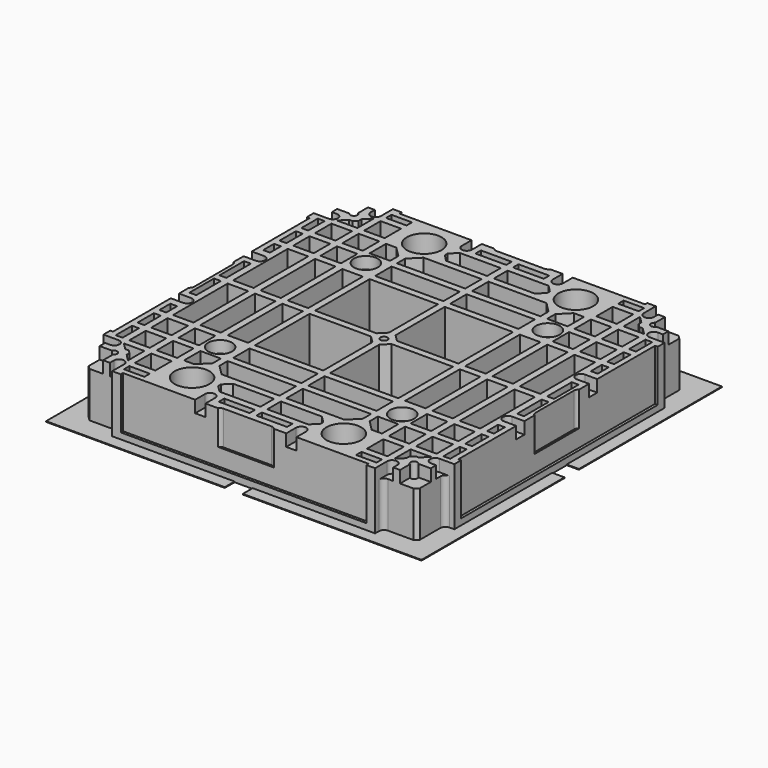
from build123d import *

# Parameters (mm, degrees)
SKETCH_W                 = 120
SKETCH_H                 = 120
PAD001_DEPTH             = 2
SKETCH002_R              = 2.55
PAD002_DEPTH             = 8
SKETCH003_R              = 5.1
PAD003_DEPTH             = 12
SKETCH006_W              = 120
SKETCH006_H              = 120
PAD004_DEPTH             = 2
SKETCH005_R              = 2.55
PAD005_DEPTH             = 20
SKETCH007_W              = 120
SKETCH007_H              = 120
PAD006_DEPTH             = 2
SKETCH008_R              = 1.025
PAD007_DEPTH             = 20
PAD008_DEPTH             = 6
CHAMFER_SIZE             = 0.4
SKETCH010_W              = 120
SKETCH010_H              = 120
PAD009_DEPTH             = 2
PAD010_DEPTH             = 3.5
POLARPATTERN_COUNT       = 4
SKETCH013_W              = 120
SKETCH013_H              = 120
PAD011_DEPTH             = 2
PAD012_DEPTH             = 10
POLARPATTERN001_COUNT    = 4
SKETCH017_W              = 120
SKETCH017_H              = 120
PAD013_DEPTH             = 2
PAD014_DEPTH             = 3.5
POLARPATTERN003_COUNT    = 4
PAD_DEPTH                = 17
SKETCH014_W              = 6
SKETCH014_H              = 20
SKETCH014_H_2            = 6
SKETCH014_W_2            = 20
SKETCH014_W_3            = 2
SKETCH014_H_3            = 4
SKETCH014_H_4            = 9
SKETCH014_W_4            = 9
SKETCH014_H_5            = 2
POCKET_DEPTH             = 309.744437
SKETCH014_MIRRORED_2_W   = 6
SKETCH014_MIRRORED_2_H   = 20
SKETCH014_MIRRORED_2_H_2 = 6
SKETCH014_MIRRORED_2_W_2 = 20
SKETCH014_MIRRORED_2_W_3 = 2
SKETCH014_MIRRORED_2_H_3 = 4
SKETCH014_MIRRORED_2_H_4 = 9
SKETCH014_MIRRORED_2_W_4 = 9
SKETCH014_MIRRORED_2_H_5 = 2
POCKET_MIRRORED_2_DEPTH  = 309.744437
SKETCH015_W              = 72
SKETCH015_H              = 15
POCKET001_DEPTH          = 0.8
POLARPATTERN002_COUNT    = 4
PAD015_DEPTH             = 0.2
POLARPATTERN004_COUNT    = 4
SKETCH019_R              = 3.5
POCKET002_DEPTH          = 3.5


with BuildPart() as tooling_hole:
    # Sketch → Pad001 (new body)
    with BuildSketch(Plane.XY):
        Rectangle(SKETCH_W, SKETCH_H)
    extrude(amount=-PAD001_DEPTH)

    # Sketch002 (on Face5 of Pad001) → Pad002 (join)
    with BuildSketch(Plane.XY):
        with Locations((-22.225, 42.5)):
            Circle(SKETCH002_R)
        with Locations((22.225, 42.5)):
            Circle(SKETCH002_R)
        with Locations((-22.225, -42.5)):
            Circle(SKETCH002_R)
        with Locations((22.225, -42.5)):
            Circle(SKETCH002_R)
    extrude(amount=PAD002_DEPTH)

    # Sketch003 (on Face13 of Pad002) → Pad003 (join)
    with BuildSketch(Plane.XY.offset(8)):
        with Locations((-22.225, 42.5)):
            Circle(SKETCH003_R)
        with Locations((22.225, 42.5)):
            Circle(SKETCH003_R)
        with Locations((-22.225, -42.5)):
            Circle(SKETCH003_R)
        with Locations((22.225, -42.5)):
            Circle(SKETCH003_R)
    extrude(amount=PAD003_DEPTH)


with BuildPart() as pcb_mounting_tube:
    # Sketch006 → Pad004 (new body)
    with BuildSketch(Plane.XY):
        Rectangle(SKETCH006_W, SKETCH006_H)
    extrude(amount=-PAD004_DEPTH)

    # Sketch005 (on Face5 of Pad004) → Pad005 (join)
    with BuildSketch(Plane.XY):
        with Locations((-26.67, 26.67)):
            Circle(SKETCH005_R)
        with Locations((26.67, 26.67)):
            Circle(SKETCH005_R)
        with Locations((-26.67, -26.67)):
            Circle(SKETCH005_R)
        with Locations((26.67, -26.67)):
            Circle(SKETCH005_R)
    extrude(amount=PAD005_DEPTH)


with BuildPart() as canvas_mounting_hole:
    # Sketch007 → Pad006 (new body)
    with BuildSketch(Plane.XY):
        Rectangle(SKETCH007_W, SKETCH007_H)
    extrude(amount=-PAD006_DEPTH)

    # Sketch008 (on Face5 of Pad006) → Pad007 (join)
    with BuildSketch(Plane.XY):
        with Locations((-44, 44)):
            Circle(SKETCH008_R)
        with Locations((44, 44)):
            Circle(SKETCH008_R)
        with Locations((-44, -44)):
            Circle(SKETCH008_R)
        with Locations((44, -44)):
            Circle(SKETCH008_R)
        Circle(SKETCH008_R)
    extrude(amount=PAD007_DEPTH)

    # Sketch009 (on Face4 of Pad007) → Pad008 (join)
    with BuildSketch(Plane.XY):
        Polygon((-42, 42.845299), (-42, 45.154701), (-44, 46.309401), (-46, 45.154701), (-46, 42.845299), (-44, 41.690599), align=None)
        Polygon((42, 45.154701), (42, 42.845299), (44, 41.690599), (46, 42.845299), (46, 45.154701), (44, 46.309401), align=None)
        Polygon((-42, -45.154701), (-42, -42.845299), (-44, -41.690599), (-46, -42.845299), (-46, -45.154701), (-44, -46.309401), align=None)
        Polygon((46, -45.154701), (46, -42.845299), (44, -41.690599), (42, -42.845299), (42, -45.154701), (44, -46.309401), align=None)
        Polygon((2, -1.154701), (2, 1.154701), (0, 2.309401), (-2, 1.154701), (-2, -1.154701), (0, -2.309401), align=None)
    extrude(amount=PAD008_DEPTH)

    # Chamfer
    chamfer_edges = [canvas_mounting_hole.edges().sort_by_distance(p)[0] for p in [
        (0, -60, 0),
        (-60, 0, 0),
        (60, 0, 0),
        (0, 60, 0),
        (2, 0, 0),
        (1, 1.732051, 0),
        (-1, 1.732051, 0),
        (-2, 0, 0),
        (-1, -1.732051, 0),
        (1, -1.732051, 0),
        (-42, -44, 0),
        (-43, -42.267949, 0),
        (-45, -42.267949, 0),
        (-46, -44, 0),
        (-45, -45.732051, 0),
        (-43, -45.732051, 0),
        (-42, 44, 0),
        (-43, 45.732051, 0),
        (-45, 45.732051, 0),
        (-46, 44, 0),
        (-45, 42.267949, 0),
        (-43, 42.267949, 0),
        (46, -44, 0),
        (45, -42.267949, 0),
        (43, -42.267949, 0),
        (42, -44, 0),
        (43, -45.732051, 0),
        (45, -45.732051, 0),
        (42, 44, 0),
        (43, 42.267949, 0),
        (45, 42.267949, 0),
        (46, 44, 0),
        (45, 45.732051, 0),
        (43, 45.732051, 0),
    ]]
    chamfer(chamfer_edges, length=CHAMFER_SIZE)


with BuildPart() as canvas_rib:
    # Sketch010 → Pad009 (new body)
    with BuildSketch(Plane.XY.offset(17)):
        Rectangle(SKETCH010_W, SKETCH010_H)
    extrude(amount=PAD009_DEPTH)

    # Sketch011 (on Face5 of Pad009) → Pad010 (join)
    with BuildSketch(Plane(origin=(0, 0, 17), x_dir=(1, 0, 0), z_dir=(0, 0, -1))):
        with BuildLine():
            ThreePointArc((-41.505, 47), (-40.005, 45.5), (-38.505, 47))
            Line((-38.505, 47), (-38.505, 57))
            ThreePointArc((-38.505, 57), (-40.005, 58.5), (-41.505, 57))
            Line((-41.505, 47), (-41.505, 57))
        make_face()
        with BuildLine():
            ThreePointArc((-14.835, 47), (-13.335, 45.5), (-11.835, 47))
            Line((-11.835, 47), (-11.835, 57))
            ThreePointArc((-11.835, 57), (-13.335, 58.5), (-14.835, 57))
            Line((-14.835, 47), (-14.835, 57))
        make_face()
        with BuildLine():
            ThreePointArc((11.835, 47), (13.335, 45.5), (14.835, 47))
            Line((14.835, 47), (14.835, 57))
            ThreePointArc((14.835, 57), (13.335, 58.5), (11.835, 57))
            Line((11.835, 47), (11.835, 57))
        make_face()
        with BuildLine():
            ThreePointArc((38.505, 47), (40.005, 45.5), (41.505, 47))
            Line((41.505, 47), (41.505, 57))
            ThreePointArc((41.505, 57), (40.005, 58.5), (38.505, 57))
            Line((38.505, 47), (38.505, 57))
        make_face()
    pad010 = extrude(amount=PAD010_DEPTH)

    # PolarPattern: Pad010 ×4 about axis
    polarpattern_axis = Axis((0, 0, 0), (0, 0, 1))
    for i in range(1, POLARPATTERN_COUNT):
        add(pad010.rotate(polarpattern_axis, i * 360 / POLARPATTERN_COUNT))


with BuildPart() as canvas_usb:
    # Sketch013 → Pad011 (new body)
    with BuildSketch(Plane.XY.offset(17)):
        Rectangle(SKETCH013_W, SKETCH013_H)
    extrude(amount=PAD011_DEPTH)

    # Sketch012 (on Face5 of Pad011) → Pad012 (join)
    with BuildSketch(Plane(origin=(0, 0, 17), x_dir=(1, 0, 0), z_dir=(0, 0, -1))):
        with BuildLine():
            ThreePointArc((-8.5, 51.5), (-8.06066, 50.43934), (-7, 50))
            Line((-7, 50), (7, 50))
            ThreePointArc((7, 50), (8.06066, 50.43934), (8.5, 51.5))
            Line((8.5, 67.989103), (8.5, 51.5))
            Line((-8.5, 67.989103), (8.5, 67.989103))
            Line((-8.5, 51.5), (-8.5, 67.989103))
        make_face()
    pad012 = extrude(amount=PAD012_DEPTH)

    # PolarPattern001: Pad012 ×4 about axis
    polarpattern001_axis = Axis((0, 0, 0), (0, 0, 1))
    for i in range(1, POLARPATTERN001_COUNT):
        add(pad012.rotate(polarpattern001_axis, i * 360 / POLARPATTERN001_COUNT))


with BuildPart() as canvas_corner:
    # Sketch017 → Pad013 (new body)
    with BuildSketch(Plane.XY.offset(17)):
        Rectangle(SKETCH017_W, SKETCH017_H)
    extrude(amount=PAD013_DEPTH)

    # Sketch016 (on Face5 of Pad013) → Pad014 (join)
    with BuildSketch(Plane(origin=(0, 0, 17), x_dir=(1, 0, 0), z_dir=(0, 0, -1))):
        with BuildLine():
            Line((-60, 60), (-43.5, 60))
            Line((-43.5, 60), (-43.5, 45))
            ThreePointArc((-45, 43.5), (-43.93934, 43.93934), (-43.5, 45))
            Line((-45, 43.5), (-60, 43.5))
            Line((-60, 43.5), (-60, 60))
        make_face()
    pad014 = extrude(amount=PAD014_DEPTH)

    # PolarPattern003: Pad014 ×4 about axis
    polarpattern003_axis = Axis((0, 0, 0), (0, 0, 1))
    for i in range(1, POLARPATTERN003_COUNT):
        add(pad014.rotate(polarpattern003_axis, i * 360 / POLARPATTERN003_COUNT))


with BuildPart() as base:
    # Sketch001 → Pad (new body)
    with BuildSketch(Plane.XY):
        with BuildLine():
            Line((-38.505, 51.4), (38.505, 51.4))
            Line((38.505, 51.4), (38.505, 50))
            ThreePointArc((38.505, 50), (38.94434, 48.93934), (40.005, 48.5))
            Line((40.005, 48.5), (47.5, 48.5))
            Line((47.5, 48.5), (48.5, 47.5))
            Line((48.5, 47.5), (48.5, 40.005))
            ThreePointArc((48.5, 40.005), (48.93934, 38.94434), (50, 38.505))
            Line((50, 38.505), (51.4, 38.505))
            Line((51.4, 38.505), (51.4, -38.505))
            Line((50, -38.505), (51.4, -38.505))
            ThreePointArc((50, -38.505), (48.93934, -38.94434), (48.5, -40.005))
            Line((48.5, -47.5), (48.5, -40.005))
            Line((48.5, -47.5), (47.5, -48.5))
            Line((47.5, -48.5), (40.005, -48.5))
            ThreePointArc((40.005, -48.5), (38.94434, -48.93934), (38.505, -50))
            Line((38.505, -50), (38.505, -51.4))
            Line((38.505, -51.4), (-38.505, -51.4))
            Line((-38.505, -50), (-38.505, -51.4))
            ThreePointArc((-38.505, -50), (-38.94434, -48.93934), (-40.005, -48.5))
            Line((-47.5, -48.5), (-40.005, -48.5))
            Line((-48.5, -47.5), (-47.5, -48.5))
            Line((-48.5, -40.005), (-48.5, -47.5))
            ThreePointArc((-48.5, -40.005), (-48.93934, -38.94434), (-50, -38.505))
            Line((-51.4, -38.505), (-50, -38.505))
            Line((-51.4, -38.505), (-51.4, 38.505))
            Line((-51.4, 38.505), (-50, 38.505))
            ThreePointArc((-50, 38.505), (-48.93934, 38.94434), (-48.5, 40.005))
            Line((-48.5, 40.005), (-48.5, 47.5))
            Line((-48.5, 47.5), (-47.5, 48.5))
            Line((-47.5, 48.5), (-40.005, 48.5))
            ThreePointArc((-40.005, 48.5), (-38.94434, 48.93934), (-38.505, 50))
            Line((-38.505, 50), (-38.505, 51.4))
        make_face()
    extrude(amount=PAD_DEPTH)

    # Boolean: cut Tooling Hole
    add(tooling_hole.part, mode=Mode.SUBTRACT)

    # Boolean001: cut PCB Mounting Tube
    add(pcb_mounting_tube.part, mode=Mode.SUBTRACT)

    # Boolean002: cut Canvas Mounting Hole
    add(canvas_mounting_hole.part, mode=Mode.SUBTRACT)

    # Boolean003: cut Canvas Rib
    add(canvas_rib.part, mode=Mode.SUBTRACT)

    # Boolean004: cut Canvas Usb
    add(canvas_usb.part, mode=Mode.SUBTRACT)

    # Sketch014 (on Face4 of Boolean004) → Pocket (cut, through all)
    with BuildSketch(Plane.XY.offset(17)):
        Polygon((-18, 37), (-1, 37), (-1, 31), (-21, 31), (-21, 34), align=None)
        with Locations((-34, 11)):
            Rectangle(SKETCH014_W, SKETCH014_H)
        with Locations((-42, 11)):
            Rectangle(SKETCH014_W, SKETCH014_H)
        Polygon((-13, 44), (-1, 44), (-1, 39), (-13, 39), (-15, 41), (-15, 42), align=None)
        with Locations((-42, 26)):
            Rectangle(SKETCH014_W, SKETCH014_H_2)
        with Locations((-34, 26)):
            Rectangle(SKETCH014_W, SKETCH014_H_2)
        with Locations((-42, 34)):
            Rectangle(SKETCH014_W, SKETCH014_H_2)
        with Locations((-34, 34)):
            Rectangle(SKETCH014_W, SKETCH014_H_2)
        Polygon((-29, 31), (-23, 31), (-23, 34), (-26, 37), (-29, 37), align=None)
        with Locations((-34, 42)):
            Rectangle(SKETCH014_W, SKETCH014_H_2)
        with Locations((-11, 26)):
            Rectangle(SKETCH014_W_2, SKETCH014_H_2)
        with Locations((-26, 11)):
            Rectangle(SKETCH014_W, SKETCH014_H)
        with Locations((-48, 34)):
            Rectangle(SKETCH014_W_3, SKETCH014_H_2)
        with Locations((-48, 26)):
            Rectangle(SKETCH014_W_3, SKETCH014_H_2)
        with Locations((-48, 19)):
            Rectangle(SKETCH014_W_3, SKETCH014_H_3)
        with Locations((-48, 5.5)):
            Rectangle(SKETCH014_W_3, SKETCH014_H_4)
        with Locations((-5.5, 47)):
            Rectangle(SKETCH014_W_4, SKETCH014_H_5)
        with Locations((-34, 48)):
            Rectangle(SKETCH014_W, SKETCH014_H_5)
        Polygon((-45, 39), (-39, 39), (-39, 45), (-41, 43), (-41, 42), (-42, 41), (-43, 41), align=None)
        Polygon((-21, 21), (-1, 21), (-1, 3), (-3, 1), (-21, 1), align=None)
    pocket = extrude(amount=-POCKET_DEPTH, mode=Mode.SUBTRACT)

    # Sketch014 Mirrored 2 → Pocket Mirrored 2 (cut, through all)
    with BuildSketch(Plane(origin=(0, 0, 17), x_dir=(-1, 0, 0), z_dir=(0, 0, -1))):
        Polygon((-18, 37), (-1, 37), (-1, 31), (-21, 31), (-21, 34), align=None)
        with Locations((-34, 11)):
            Rectangle(SKETCH014_MIRRORED_2_W, SKETCH014_MIRRORED_2_H)
        with Locations((-42, 11)):
            Rectangle(SKETCH014_MIRRORED_2_W, SKETCH014_MIRRORED_2_H)
        Polygon((-13, 44), (-1, 44), (-1, 39), (-13, 39), (-15, 41), (-15, 42), align=None)
        with Locations((-42, 26)):
            Rectangle(SKETCH014_MIRRORED_2_W, SKETCH014_MIRRORED_2_H_2)
        with Locations((-34, 26)):
            Rectangle(SKETCH014_MIRRORED_2_W, SKETCH014_MIRRORED_2_H_2)
        with Locations((-42, 34)):
            Rectangle(SKETCH014_MIRRORED_2_W, SKETCH014_MIRRORED_2_H_2)
        with Locations((-34, 34)):
            Rectangle(SKETCH014_MIRRORED_2_W, SKETCH014_MIRRORED_2_H_2)
        Polygon((-29, 31), (-23, 31), (-23, 34), (-26, 37), (-29, 37), align=None)
        with Locations((-34, 42)):
            Rectangle(SKETCH014_MIRRORED_2_W, SKETCH014_MIRRORED_2_H_2)
        with Locations((-11, 26)):
            Rectangle(SKETCH014_MIRRORED_2_W_2, SKETCH014_MIRRORED_2_H_2)
        with Locations((-26, 11)):
            Rectangle(SKETCH014_MIRRORED_2_W, SKETCH014_MIRRORED_2_H)
        with Locations((-48, 34)):
            Rectangle(SKETCH014_MIRRORED_2_W_3, SKETCH014_MIRRORED_2_H_2)
        with Locations((-48, 26)):
            Rectangle(SKETCH014_MIRRORED_2_W_3, SKETCH014_MIRRORED_2_H_2)
        with Locations((-48, 19)):
            Rectangle(SKETCH014_MIRRORED_2_W_3, SKETCH014_MIRRORED_2_H_3)
        with Locations((-48, 5.5)):
            Rectangle(SKETCH014_MIRRORED_2_W_3, SKETCH014_MIRRORED_2_H_4)
        with Locations((-5.5, 47)):
            Rectangle(SKETCH014_MIRRORED_2_W_4, SKETCH014_MIRRORED_2_H_5)
        with Locations((-34, 48)):
            Rectangle(SKETCH014_MIRRORED_2_W, SKETCH014_MIRRORED_2_H_5)
        Polygon((-45, 39), (-39, 39), (-39, 45), (-41, 43), (-41, 42), (-42, 41), (-43, 41), align=None)
        Polygon((-21, 21), (-1, 21), (-1, 3), (-3, 1), (-21, 1), align=None)
    pocket_mirrored_2 = extrude(amount=POCKET_MIRRORED_2_DEPTH, mode=Mode.SUBTRACT)

    # Mirrored001: Pocket, Pocket Mirrored 2 across XZ
    add(pocket.mirror(Plane.XZ), mode=Mode.SUBTRACT)
    add(pocket_mirrored_2.mirror(Plane.XZ), mode=Mode.SUBTRACT)

    # Sketch015 (on Face43 of MultiTransform) → Pocket001 (cut)
    with BuildSketch(Plane.YZ.offset(51.4)):
        with Locations((0, 9.5)):
            Rectangle(SKETCH015_W, SKETCH015_H)
    pocket001 = extrude(amount=-POCKET001_DEPTH, mode=Mode.SUBTRACT)

    # PolarPattern002: Pocket001 ×4 about axis
    polarpattern002_axis = Axis((0, 0, 0), (0, 0, 1))
    for i in range(1, POLARPATTERN002_COUNT):
        add(pocket001.rotate(polarpattern002_axis, i * 360 / POLARPATTERN002_COUNT), mode=Mode.SUBTRACT)

    # Boolean005: cut Canvas Corner
    add(canvas_corner.part, mode=Mode.SUBTRACT)

    # Sketch018 (on Face2 of Boolean005) → Pad015 (join)
    with BuildSketch(Plane(origin=(0, 0, 0), x_dir=(1, 0, 0), z_dir=(0, 0, -1))):
        Polygon((-2.647847, 55), (-55, 55), (-55, 2.647847), (-49.487885, 2.647847), (-49.487885, 37.169464), (-47.372658, 38.623676), (-46.976051, 46.952377), (-40.630379, 47.613377), (-37.721947, 48.40659), (-37.32534, 50.257408), (-2.647847, 50.257408), align=None)
    pad015 = extrude(amount=-PAD015_DEPTH)

    # PolarPattern004: Pad015 ×4 about axis
    polarpattern004_axis = Axis((0, 0, 0), (0, 0, -1))
    for i in range(1, POLARPATTERN004_COUNT):
        add(pad015.rotate(polarpattern004_axis, i * 360 / POLARPATTERN004_COUNT))

    # Sketch019 (on Face86 of PolarPattern004) → Pocket002 (cut)
    with BuildSketch(Plane.XY.offset(17)):
        with Locations((-26.67, 26.67)):
            Circle(SKETCH019_R)
        with Locations((26.67, 26.67)):
            Circle(SKETCH019_R)
        with Locations((26.67, -26.67)):
            Circle(SKETCH019_R)
        with Locations((-26.67, -26.67)):
            Circle(SKETCH019_R)
    extrude(amount=-POCKET002_DEPTH, mode=Mode.SUBTRACT)


solid = base.part
